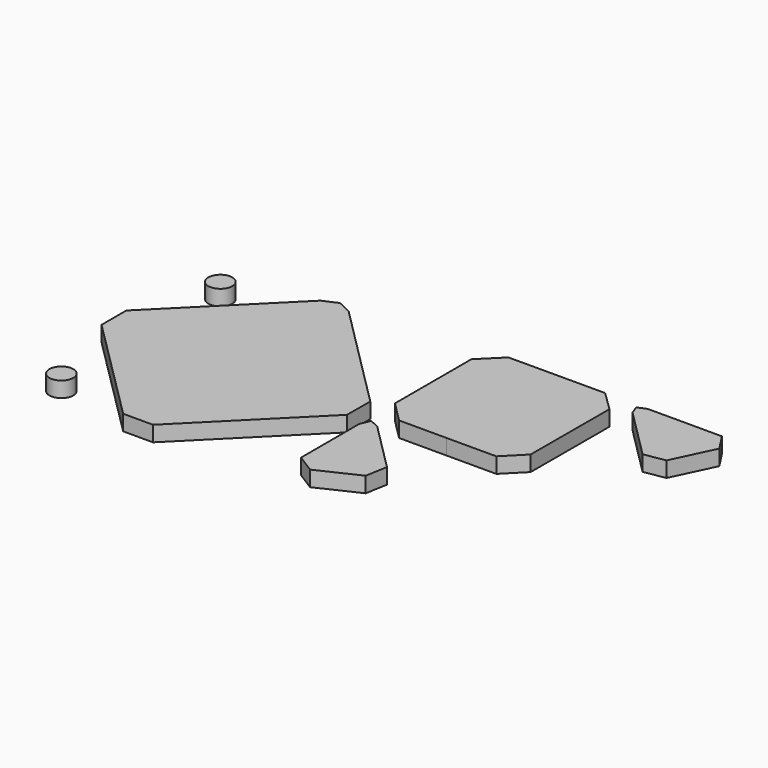
from build123d import *

# Parameters (mm, degrees)
F0_R     = 3.858673
F1_DEPTH = 5


with BuildPart() as f1:
    # F0 (on Top) → F1 (new body)
    with BuildSketch(Plane.XY):
        Polygon((-37.938597, 36.889652), (-42.407919, 38.982203), (-47.093249, 36.893786), (-81.903183, 2.143108), (-81.881823, -7.866272), (-47.309257, -42.356673), (-37.68366, -42.355984), (-2.901631, -7.573439), (-2.856501, 1.784818), (-23.735157, 22.668987), align=None)
        Polygon((9.268169, -1.759496), (24.6047, -1.76363), (40.646443, -1.74985), (46.777335, 4.429274), (46.839691, 36.159637), (40.502093, 42.356674), (9.300208, 42.312922), (2.63636, 35.722454), (2.638427, 4.872657), align=None)
        Polygon((2.632915, -10.671269), (2.633604, -21.233932), (2.648418, -33.028561), (8.507147, -36.736517), (21.544766, -30.601146), (22.814973, -23.57074), (6.885196, -7.634073), (3.973401, -6.40693), (2.641872, -9.439647), align=None)
        Polygon((78.232779, 42.304653), (66.591112, 42.309476), (54.244235, 42.300519), (51.505728, 41.12712), (52.528577, 38.358641), (68.748776, 22.150845), (75.558007, 23.314254), (81.903184, 36.673989), align=None)
        with Locations((-73.195359, 29.208195)):
            Circle(F0_R)
        with Locations((-73.195359, -34.931359)):
            Circle(F0_R)
    extrude(amount=F1_DEPTH)


solid = f1.part
